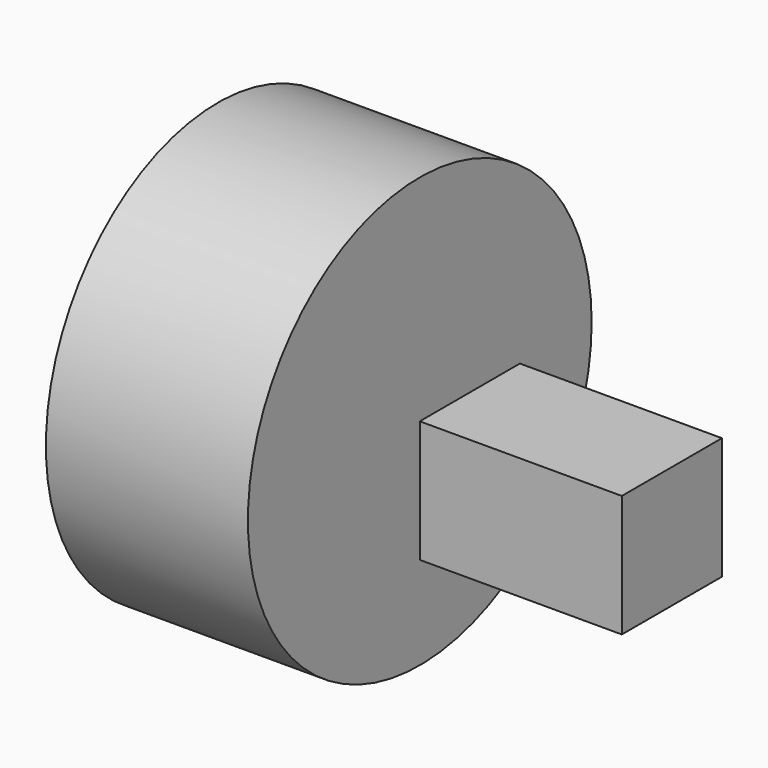
from build123d import *

# Parameters (mm, degrees)
F0_R     = 27.008415
F1_DEPTH = 25.4
F2_W     = 15.731728
F2_H     = 15.334575
F3_DEPTH = 25.4


with BuildPart() as f1:
    # F0 (on Right) → F1 (new body)
    with BuildSketch(Plane.YZ):
        Circle(F0_R)
    extrude(amount=F1_DEPTH)

    # F2 (on face) → F3 (join)
    with BuildSketch(Plane.YZ.offset(25.4)):
        with Locations((7.865864, -7.667287)):
            Rectangle(F2_W, F2_H)
    extrude(amount=F3_DEPTH)


solid = f1.part
